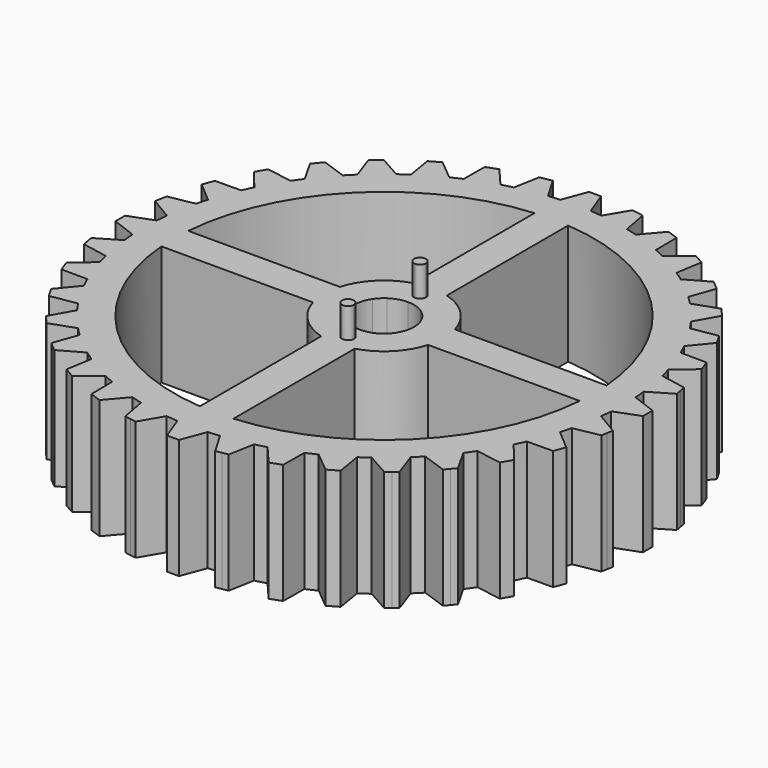
from build123d import *

# Parameters (mm, degrees)
F1_DEPTH = 25.4
F3_DEPTH = 6.35


with BuildPart() as f1:
    # F0 (on Top) → F1 (new body)
    with BuildSketch(Plane.XY):
        with BuildLine():
            Line((49.784, 0), (50.8, 0))
            ThreePointArc((50.8, 0), (50.7745638952, 1.6073771335), (50.6982810532, 3.2131446051))
            Line((50.6982810532, 3.2131446051), (49.784, 3.556))
            Line((49.784, 3.556), (49.784, 0))
        make_face()
        with BuildLine():
            Line((55.88, 0), (50.8, 0))
            ThreePointArc((50.8, 0), (50.7745638952, -1.6073771335), (50.6982810532, -3.2131446051))
            Line((50.6982810532, -3.2131446051), (55.88, -1.27))
            Line((55.88, -1.27), (55.88, 0))
        make_face()
        with BuildLine():
            ThreePointArc((50.6982810532, -3.2131446051), (50.7745638952, -1.6073771335), (50.8, 0))
            Line((50.8, 0), (49.784, 0))
            Line((49.784, 0), (49.784, -3.556))
            Line((49.784, -3.556), (50.6982810532, -3.2131446051))
        make_face()
        with BuildLine():
            ThreePointArc((50.6982810532, 3.2131446051), (50.7745638952, 1.6073771335), (50.8, 0))
            Line((50.8, 0), (55.88, 0))
            Line((55.88, 0), (55.88, 1.27))
            Line((55.88, 1.27), (50.6982810532, 3.2131446051))
        make_face()
        with BuildLine():
            Line((49.784, 3.556), (50.6982810532, 3.2131446051))
            ThreePointArc((50.6982810532, 3.2131446051), (50.6066906631, 4.4275117316), (50.4860169508, 5.6393343971))
            Line((50.4860169508, 5.6393343971), (49.6451620957, 5.1429245073))
            Line((49.6451620957, 5.1429245073), (49.027669176, 8.644900877))
            Line((49.027669176, 8.644900877), (48.4101762562, 12.1468772467))
            Line((48.4101762562, 12.1468772467), (49.3701035403, 11.9679938343))
            ThreePointArc((49.3701035403, 11.9679938343), (49.0690319755, 13.1480074912), (48.7397607705, 14.3204650773))
            Line((48.7397607705, 14.3204650773), (47.9978810629, 13.6855838558))
            Line((47.9978810629, 13.6855838558), (46.7816574332, 17.0271308153))
            Line((46.7816574332, 17.0271308153), (45.5654338035, 20.3686777748))
            Line((45.5654338035, 20.3686777748), (46.5418404139, 20.3592016271))
            ThreePointArc((46.5418404139, 20.3592016271), (46.0404355815, 21.4690076964), (45.5125716228, 22.5664756726))
            Line((45.5125716228, 22.5664756726), (44.892208702, 21.8124136641))
            Line((44.892208702, 21.8124136641), (43.114208702, 24.892))
            Line((43.114208702, 24.892), (41.336208702, 27.9715863359))
            Line((41.336208702, 27.9715863359), (42.2994270177, 28.1318053806))
            ThreePointArc((42.2994270177, 28.1318053806), (41.6129238499, 29.1376829666), (40.9025060167, 30.1268153237))
            Line((40.9025060167, 30.1268153237), (40.4225092963, 29.2764843209))
            Line((40.4225092963, 29.2764843209), (38.1367565562, 32.0005383606))
            Line((38.1367565562, 32.0005383606), (35.8510038162, 34.7245924004))
            Line((35.8510038162, 34.7245924004), (36.7717669362, 35.049638463))
            ThreePointArc((36.7717669362, 35.049638463), (35.9210244843, 35.9210244843), (35.049638463, 36.7717669362))
            Line((35.049638463, 36.7717669362), (34.7245924004, 35.8510038162))
            Line((34.7245924004, 35.8510038162), (32.0005383606, 38.1367565562))
            Line((32.0005383606, 38.1367565562), (29.2764843209, 40.4225092963))
            Line((29.2764843209, 40.4225092963), (30.1268153237, 40.9025060167))
            ThreePointArc((30.1268153237, 40.9025060167), (29.1376829666, 41.6129238499), (28.1318053806, 42.2994270177))
            Line((28.1318053806, 42.2994270177), (27.9715863359, 41.336208702))
            Line((27.9715863359, 41.336208702), (24.892, 43.114208702))
            Line((24.892, 43.114208702), (21.8124136641, 44.892208702))
            Line((21.8124136641, 44.892208702), (22.5664756726, 45.5125716228))
            ThreePointArc((22.5664756726, 45.5125716228), (21.4690076964, 46.0404355815), (20.3592016271, 46.5418404139))
            Line((20.3592016271, 46.5418404139), (20.3686777748, 45.5654338035))
            Line((20.3686777748, 45.5654338035), (17.0271308153, 46.7816574332))
            Line((17.0271308153, 46.7816574332), (13.6855838558, 47.9978810629))
            Line((13.6855838558, 47.9978810629), (14.3204650773, 48.7397607705))
            ThreePointArc((14.3204650773, 48.7397607705), (13.1480074912, 49.0690319755), (11.9679938343, 49.3701035403))
            Line((11.9679938343, 49.3701035403), (12.1468772467, 48.4101762562))
            Line((12.1468772467, 48.4101762562), (8.644900877, 49.027669176))
            Line((8.644900877, 49.027669176), (5.1429245073, 49.6451620957))
            Line((5.1429245073, 49.6451620957), (5.6393343971, 50.4860169508))
            ThreePointArc((5.6393343971, 50.4860169508), (4.4275117316, 50.6066906631), (3.2131446051, 50.6982810532))
            Line((3.2131446051, 50.6982810532), (3.556, 49.784))
            Line((3.556, 49.784), (3.556, 44.3075316848))
            ThreePointArc((3.556, 44.3075316848), (31.4308964237, 31.4308964237), (44.3075316848, 3.556))
            Line((44.3075316848, 3.556), (49.784, 3.556))
        make_face()
        with BuildLine():
            ThreePointArc((50.4860169508, -5.6393343971), (50.6066906631, -4.4275117316), (50.6982810532, -3.2131446051))
            Line((50.6982810532, -3.2131446051), (49.784, -3.556))
            Line((49.784, -3.556), (44.3075316848, -3.556))
            ThreePointArc((44.3075316848, -3.556), (31.4308964237, -31.4308964237), (3.556, -44.3075316848))
            Line((3.556, -44.3075316848), (3.556, -49.784))
            Line((3.556, -49.784), (3.2131446051, -50.6982810532))
            ThreePointArc((3.2131446051, -50.6982810532), (4.4275117316, -50.6066906631), (5.6393343971, -50.4860169508))
            Line((5.6393343971, -50.4860169508), (5.1429245073, -49.6451620957))
            Line((5.1429245073, -49.6451620957), (8.644900877, -49.027669176))
            Line((8.644900877, -49.027669176), (12.1468772467, -48.4101762562))
            Line((12.1468772467, -48.4101762562), (11.9679938343, -49.3701035403))
            ThreePointArc((11.9679938343, -49.3701035403), (13.1480074912, -49.0690319755), (14.3204650773, -48.7397607705))
            Line((14.3204650773, -48.7397607705), (13.6855838558, -47.9978810629))
            Line((13.6855838558, -47.9978810629), (17.0271308153, -46.7816574332))
            Line((17.0271308153, -46.7816574332), (20.3686777748, -45.5654338035))
            Line((20.3686777748, -45.5654338035), (20.3592016271, -46.5418404139))
            ThreePointArc((20.3592016271, -46.5418404139), (21.4690076964, -46.0404355815), (22.5664756726, -45.5125716228))
            Line((22.5664756726, -45.5125716228), (21.8124136641, -44.892208702))
            Line((21.8124136641, -44.892208702), (24.892, -43.114208702))
            Line((24.892, -43.114208702), (27.9715863359, -41.336208702))
            Line((27.9715863359, -41.336208702), (28.1318053806, -42.2994270177))
            ThreePointArc((28.1318053806, -42.2994270177), (29.1376829666, -41.6129238499), (30.1268153237, -40.9025060167))
            Line((30.1268153237, -40.9025060167), (29.2764843209, -40.4225092963))
            Line((29.2764843209, -40.4225092963), (32.0005383606, -38.1367565562))
            Line((32.0005383606, -38.1367565562), (34.7245924004, -35.8510038162))
            Line((34.7245924004, -35.8510038162), (35.049638463, -36.7717669362))
            ThreePointArc((35.049638463, -36.7717669362), (35.9210244843, -35.9210244843), (36.7717669362, -35.049638463))
            Line((36.7717669362, -35.049638463), (35.8510038162, -34.7245924004))
            Line((35.8510038162, -34.7245924004), (38.1367565562, -32.0005383606))
            Line((38.1367565562, -32.0005383606), (40.4225092963, -29.2764843209))
            Line((40.4225092963, -29.2764843209), (40.9025060167, -30.1268153237))
            ThreePointArc((40.9025060167, -30.1268153237), (41.6129238499, -29.1376829666), (42.2994270177, -28.1318053806))
            Line((42.2994270177, -28.1318053806), (41.336208702, -27.9715863359))
            Line((41.336208702, -27.9715863359), (43.114208702, -24.892))
            Line((43.114208702, -24.892), (44.892208702, -21.8124136641))
            Line((44.892208702, -21.8124136641), (45.5125716228, -22.5664756726))
            ThreePointArc((45.5125716228, -22.5664756726), (46.0404355815, -21.4690076964), (46.5418404139, -20.3592016271))
            Line((46.5418404139, -20.3592016271), (45.5654338035, -20.3686777748))
            Line((45.5654338035, -20.3686777748), (46.7816574332, -17.0271308153))
            Line((46.7816574332, -17.0271308153), (47.9978810629, -13.6855838558))
            Line((47.9978810629, -13.6855838558), (48.7397607705, -14.3204650773))
            ThreePointArc((48.7397607705, -14.3204650773), (49.0690319755, -13.1480074912), (49.3701035403, -11.9679938343))
            Line((49.3701035403, -11.9679938343), (48.4101762562, -12.1468772467))
            Line((48.4101762562, -12.1468772467), (49.027669176, -8.644900877))
            Line((49.027669176, -8.644900877), (49.6451620957, -5.1429245073))
            Line((49.6451620957, -5.1429245073), (50.4860169508, -5.6393343971))
        make_face()
        with BuildLine():
            Line((49.6451620957, 5.1429245073), (50.4860169508, 5.6393343971))
            ThreePointArc((50.4860169508, 5.6393343971), (50.028233853, 8.8213274255), (49.3701035403, 11.9679938343))
            Line((49.3701035403, 11.9679938343), (48.4101762562, 12.1468772467))
            Line((48.4101762562, 12.1468772467), (49.027669176, 8.644900877))
            Line((49.027669176, 8.644900877), (49.6451620957, 5.1429245073))
        make_face()
        with BuildLine():
            ThreePointArc((49.3701035403, 11.9679938343), (50.028233853, 8.8213274255), (50.4860169508, 5.6393343971))
            Line((50.4860169508, 5.6393343971), (55.251590424, 8.4527543217))
            Line((55.251590424, 8.4527543217), (55.0310572383, 9.703460168))
            Line((55.0310572383, 9.703460168), (54.8105240527, 10.9541660144))
            Line((54.8105240527, 10.9541660144), (49.3701035403, 11.9679938343))
        make_face()
        with BuildLine():
            Line((55.251590424, -8.4527543217), (50.4860169508, -5.6393343971))
            ThreePointArc((50.4860169508, -5.6393343971), (50.028233853, -8.8213274255), (49.3701035403, -11.9679938343))
            Line((49.3701035403, -11.9679938343), (54.8105240527, -10.9541660144))
            Line((54.8105240527, -10.9541660144), (55.0310572383, -9.703460168))
            Line((55.0310572383, -9.703460168), (55.251590424, -8.4527543217))
        make_face()
        with BuildLine():
            ThreePointArc((49.3701035403, -11.9679938343), (50.028233853, -8.8213274255), (50.4860169508, -5.6393343971))
            Line((50.4860169508, -5.6393343971), (49.6451620957, -5.1429245073))
            Line((49.6451620957, -5.1429245073), (49.027669176, -8.644900877))
            Line((49.027669176, -8.644900877), (48.4101762562, -12.1468772467))
            Line((48.4101762562, -12.1468772467), (49.3701035403, -11.9679938343))
        make_face()
        with BuildLine():
            Line((47.9978810629, 13.6855838558), (48.7397607705, 14.3204650773))
            ThreePointArc((48.7397607705, 14.3204650773), (47.7363851359, 17.3746232809), (46.5418404139, 20.3592016271))
            Line((46.5418404139, 20.3592016271), (45.5654338035, 20.3686777748))
            Line((45.5654338035, 20.3686777748), (46.7816574332, 17.0271308153))
            Line((46.7816574332, 17.0271308153), (47.9978810629, 13.6855838558))
        make_face()
        with BuildLine():
            ThreePointArc((46.5418404139, 20.3592016271), (47.7363851359, 17.3746232809), (48.7397607705, 14.3204650773))
            Line((48.7397607705, 14.3204650773), (52.9443892315, 17.9186759806))
            Line((52.9443892315, 17.9186759806), (52.5100236495, 19.112085609))
            Line((52.5100236495, 19.112085609), (52.0756580675, 20.3054952374))
            Line((52.0756580675, 20.3054952374), (46.5418404139, 20.3592016271))
        make_face()
        with BuildLine():
            Line((52.9443892315, -17.9186759806), (48.7397607705, -14.3204650773))
            ThreePointArc((48.7397607705, -14.3204650773), (47.7363851359, -17.3746232809), (46.5418404139, -20.3592016271))
            Line((46.5418404139, -20.3592016271), (52.0756580675, -20.3054952374))
            Line((52.0756580675, -20.3054952374), (52.5100236495, -19.112085609))
            Line((52.5100236495, -19.112085609), (52.9443892315, -17.9186759806))
        make_face()
        with BuildLine():
            ThreePointArc((46.5418404139, -20.3592016271), (47.7363851359, -17.3746232809), (48.7397607705, -14.3204650773))
            Line((48.7397607705, -14.3204650773), (47.9978810629, -13.6855838558))
            Line((47.9978810629, -13.6855838558), (46.7816574332, -17.0271308153))
            Line((46.7816574332, -17.0271308153), (45.5654338035, -20.3686777748))
            Line((45.5654338035, -20.3686777748), (46.5418404139, -20.3592016271))
        make_face()
        with BuildLine():
            Line((0, 49.784), (3.556, 49.784))
            Line((3.556, 49.784), (3.2131446051, 50.6982810532))
            ThreePointArc((3.2131446051, 50.6982810532), (1.6073771335, 50.7745638952), (0, 50.8))
            Line((0, 50.8), (0, 49.784))
        make_face()
        with BuildLine():
            Line((3.2131446051, -50.6982810532), (3.556, -49.784))
            Line((3.556, -49.784), (0, -49.784))
            Line((0, -49.784), (0, -50.8))
            ThreePointArc((0, -50.8), (1.6073771335, -50.7745638952), (3.2131446051, -50.6982810532))
        make_face()
        with BuildLine():
            Line((44.892208702, 21.8124136641), (45.5125716228, 22.5664756726))
            ThreePointArc((45.5125716228, 22.5664756726), (43.9940905122, 25.4), (42.2994270177, 28.1318053806))
            Line((42.2994270177, 28.1318053806), (41.336208702, 27.9715863359))
            Line((41.336208702, 27.9715863359), (43.114208702, 24.892))
            Line((43.114208702, 24.892), (44.892208702, 21.8124136641))
        make_face()
        with BuildLine():
            ThreePointArc((42.2994270177, 28.1318053806), (43.9940905122, 25.4), (45.5125716228, 22.5664756726))
            Line((45.5125716228, 22.5664756726), (49.0284995635, 26.8401477372))
            Line((49.0284995635, 26.8401477372), (48.3934995635, 27.94))
            Line((48.3934995635, 27.94), (47.7584995635, 29.0398522628))
            Line((47.7584995635, 29.0398522628), (42.2994270177, 28.1318053806))
        make_face()
        with BuildLine():
            ThreePointArc((-44.3075316848, 3.556), (-31.4308964237, 31.4308964237), (-3.556, 44.3075316848))
            Line((-3.556, 44.3075316848), (-3.556, 49.784))
            Line((-3.556, 49.784), (-3.2131446051, 50.6982810532))
            ThreePointArc((-3.2131446051, 50.6982810532), (-4.4275117316, 50.6066906631), (-5.6393343971, 50.4860169508))
            Line((-5.6393343971, 50.4860169508), (-5.1429245073, 49.6451620957))
            Line((-5.1429245073, 49.6451620957), (-8.644900877, 49.027669176))
            Line((-8.644900877, 49.027669176), (-12.1468772467, 48.4101762562))
            Line((-12.1468772467, 48.4101762562), (-11.9679938343, 49.3701035403))
            ThreePointArc((-11.9679938343, 49.3701035403), (-13.1480074912, 49.0690319755), (-14.3204650773, 48.7397607705))
            Line((-14.3204650773, 48.7397607705), (-13.6855838558, 47.9978810629))
            Line((-13.6855838558, 47.9978810629), (-17.0271308153, 46.7816574332))
            Line((-17.0271308153, 46.7816574332), (-20.3686777748, 45.5654338035))
            Line((-20.3686777748, 45.5654338035), (-20.3592016271, 46.5418404139))
            ThreePointArc((-20.3592016271, 46.5418404139), (-21.4690076964, 46.0404355815), (-22.5664756726, 45.5125716228))
            Line((-22.5664756726, 45.5125716228), (-21.8124136641, 44.892208702))
            Line((-21.8124136641, 44.892208702), (-24.892, 43.114208702))
            Line((-24.892, 43.114208702), (-27.9715863359, 41.336208702))
            Line((-27.9715863359, 41.336208702), (-28.1318053806, 42.2994270177))
            ThreePointArc((-28.1318053806, 42.2994270177), (-29.1376829666, 41.6129238499), (-30.1268153237, 40.9025060167))
            Line((-30.1268153237, 40.9025060167), (-29.2764843209, 40.4225092963))
            Line((-29.2764843209, 40.4225092963), (-32.0005383606, 38.1367565562))
            Line((-32.0005383606, 38.1367565562), (-34.7245924004, 35.8510038162))
            Line((-34.7245924004, 35.8510038162), (-35.049638463, 36.7717669362))
            ThreePointArc((-35.049638463, 36.7717669362), (-35.9210244843, 35.9210244843), (-36.7717669362, 35.049638463))
            Line((-36.7717669362, 35.049638463), (-35.8510038162, 34.7245924004))
            Line((-35.8510038162, 34.7245924004), (-38.1367565562, 32.0005383606))
            Line((-38.1367565562, 32.0005383606), (-40.4225092963, 29.2764843209))
            Line((-40.4225092963, 29.2764843209), (-40.9025060167, 30.1268153237))
            ThreePointArc((-40.9025060167, 30.1268153237), (-41.6129238499, 29.1376829666), (-42.2994270177, 28.1318053806))
            Line((-42.2994270177, 28.1318053806), (-41.336208702, 27.9715863359))
            Line((-41.336208702, 27.9715863359), (-43.114208702, 24.892))
            Line((-43.114208702, 24.892), (-44.892208702, 21.8124136641))
            Line((-44.892208702, 21.8124136641), (-45.5125716228, 22.5664756726))
            ThreePointArc((-45.5125716228, 22.5664756726), (-46.0404355815, 21.4690076964), (-46.5418404139, 20.3592016271))
            Line((-46.5418404139, 20.3592016271), (-45.5654338035, 20.3686777748))
            Line((-45.5654338035, 20.3686777748), (-46.7816574332, 17.0271308153))
            Line((-46.7816574332, 17.0271308153), (-47.9978810629, 13.6855838558))
            Line((-47.9978810629, 13.6855838558), (-48.7397607705, 14.3204650773))
            ThreePointArc((-48.7397607705, 14.3204650773), (-49.0690319755, 13.1480074912), (-49.3701035403, 11.9679938343))
            Line((-49.3701035403, 11.9679938343), (-48.4101762562, 12.1468772467))
            Line((-48.4101762562, 12.1468772467), (-49.027669176, 8.644900877))
            Line((-49.027669176, 8.644900877), (-49.6451620957, 5.1429245073))
            Line((-49.6451620957, 5.1429245073), (-50.4860169508, 5.6393343971))
            ThreePointArc((-50.4860169508, 5.6393343971), (-50.6066906631, 4.4275117316), (-50.6982810532, 3.2131446051))
            Line((-50.6982810532, 3.2131446051), (-49.784, 3.556))
            Line((-49.784, 3.556), (-44.3075316848, 3.556))
        make_face()
        with BuildLine():
            Line((-3.556, 49.784), (0, 49.784))
            Line((0, 49.784), (0, 50.8))
            ThreePointArc((0, 50.8), (-1.6073771335, 50.7745638952), (-3.2131446051, 50.6982810532))
            Line((-3.2131446051, 50.6982810532), (-3.556, 49.784))
        make_face()
        with BuildLine():
            ThreePointArc((0, 50.8), (1.6073771335, 50.7745638952), (3.2131446051, 50.6982810532))
            Line((3.2131446051, 50.6982810532), (1.27, 55.88))
            Line((1.27, 55.88), (0, 55.88))
            Line((0, 55.88), (0, 50.8))
        make_face()
        with BuildLine():
            Line((49.0284995635, -26.8401477372), (45.5125716228, -22.5664756726))
            ThreePointArc((45.5125716228, -22.5664756726), (43.9940905122, -25.4), (42.2994270177, -28.1318053806))
            Line((42.2994270177, -28.1318053806), (47.7584995635, -29.0398522628))
            Line((47.7584995635, -29.0398522628), (48.3934995635, -27.94))
            Line((48.3934995635, -27.94), (49.0284995635, -26.8401477372))
        make_face()
        with BuildLine():
            ThreePointArc((42.2994270177, -28.1318053806), (43.9940905122, -25.4), (45.5125716228, -22.5664756726))
            Line((45.5125716228, -22.5664756726), (44.892208702, -21.8124136641))
            Line((44.892208702, -21.8124136641), (43.114208702, -24.892))
            Line((43.114208702, -24.892), (41.336208702, -27.9715863359))
            Line((41.336208702, -27.9715863359), (42.2994270177, -28.1318053806))
        make_face()
        with BuildLine():
            Line((-3.556, -49.784), (-3.556, -44.3075316848))
            ThreePointArc((-3.556, -44.3075316848), (-31.4308964237, -31.4308964237), (-44.3075316848, -3.556))
            Line((-44.3075316848, -3.556), (-49.784, -3.556))
            Line((-49.784, -3.556), (-50.6982810532, -3.2131446051))
            ThreePointArc((-50.6982810532, -3.2131446051), (-50.6066906631, -4.4275117316), (-50.4860169508, -5.6393343971))
            Line((-50.4860169508, -5.6393343971), (-49.6451620957, -5.1429245073))
            Line((-49.6451620957, -5.1429245073), (-49.027669176, -8.644900877))
            Line((-49.027669176, -8.644900877), (-48.4101762562, -12.1468772467))
            Line((-48.4101762562, -12.1468772467), (-49.3701035403, -11.9679938343))
            ThreePointArc((-49.3701035403, -11.9679938343), (-49.0690319755, -13.1480074912), (-48.7397607705, -14.3204650773))
            Line((-48.7397607705, -14.3204650773), (-47.9978810629, -13.6855838558))
            Line((-47.9978810629, -13.6855838558), (-46.7816574332, -17.0271308153))
            Line((-46.7816574332, -17.0271308153), (-45.5654338035, -20.3686777748))
            Line((-45.5654338035, -20.3686777748), (-46.5418404139, -20.3592016271))
            ThreePointArc((-46.5418404139, -20.3592016271), (-46.0404355815, -21.4690076964), (-45.5125716228, -22.5664756726))
            Line((-45.5125716228, -22.5664756726), (-44.892208702, -21.8124136641))
            Line((-44.892208702, -21.8124136641), (-43.114208702, -24.892))
            Line((-43.114208702, -24.892), (-41.336208702, -27.9715863359))
            Line((-41.336208702, -27.9715863359), (-42.2994270177, -28.1318053806))
            ThreePointArc((-42.2994270177, -28.1318053806), (-41.6129238499, -29.1376829666), (-40.9025060167, -30.1268153237))
            Line((-40.9025060167, -30.1268153237), (-40.4225092963, -29.2764843209))
            Line((-40.4225092963, -29.2764843209), (-38.1367565562, -32.0005383606))
            Line((-38.1367565562, -32.0005383606), (-35.8510038162, -34.7245924004))
            Line((-35.8510038162, -34.7245924004), (-36.7717669362, -35.049638463))
            ThreePointArc((-36.7717669362, -35.049638463), (-35.9210244843, -35.9210244843), (-35.049638463, -36.7717669362))
            Line((-35.049638463, -36.7717669362), (-34.7245924004, -35.8510038162))
            Line((-34.7245924004, -35.8510038162), (-32.0005383606, -38.1367565562))
            Line((-32.0005383606, -38.1367565562), (-29.2764843209, -40.4225092963))
            Line((-29.2764843209, -40.4225092963), (-30.1268153237, -40.9025060167))
            ThreePointArc((-30.1268153237, -40.9025060167), (-29.1376829666, -41.6129238499), (-28.1318053806, -42.2994270177))
            Line((-28.1318053806, -42.2994270177), (-27.9715863359, -41.336208702))
            Line((-27.9715863359, -41.336208702), (-24.892, -43.114208702))
            Line((-24.892, -43.114208702), (-21.8124136641, -44.892208702))
            Line((-21.8124136641, -44.892208702), (-22.5664756726, -45.5125716228))
            ThreePointArc((-22.5664756726, -45.5125716228), (-21.4690076964, -46.0404355815), (-20.3592016271, -46.5418404139))
            Line((-20.3592016271, -46.5418404139), (-20.3686777748, -45.5654338035))
            Line((-20.3686777748, -45.5654338035), (-17.0271308153, -46.7816574332))
            Line((-17.0271308153, -46.7816574332), (-13.6855838558, -47.9978810629))
            Line((-13.6855838558, -47.9978810629), (-14.3204650773, -48.7397607705))
            ThreePointArc((-14.3204650773, -48.7397607705), (-13.1480074912, -49.0690319755), (-11.9679938343, -49.3701035403))
            Line((-11.9679938343, -49.3701035403), (-12.1468772467, -48.4101762562))
            Line((-12.1468772467, -48.4101762562), (-8.644900877, -49.027669176))
            Line((-8.644900877, -49.027669176), (-5.1429245073, -49.6451620957))
            Line((-5.1429245073, -49.6451620957), (-5.6393343971, -50.4860169508))
            ThreePointArc((-5.6393343971, -50.4860169508), (-4.4275117316, -50.6066906631), (-3.2131446051, -50.6982810532))
            Line((-3.2131446051, -50.6982810532), (-3.556, -49.784))
        make_face()
        with BuildLine():
            Line((0, -50.8), (0, -49.784))
            Line((0, -49.784), (-3.556, -49.784))
            Line((-3.556, -49.784), (-3.2131446051, -50.6982810532))
            ThreePointArc((-3.2131446051, -50.6982810532), (-1.6073771335, -50.7745638952), (0, -50.8))
        make_face()
        with BuildLine():
            Line((1.27, -55.88), (3.2131446051, -50.6982810532))
            ThreePointArc((3.2131446051, -50.6982810532), (1.6073771335, -50.7745638952), (0, -50.8))
            Line((0, -50.8), (0, -55.88))
            Line((0, -55.88), (1.27, -55.88))
        make_face()
        with BuildLine():
            ThreePointArc((-3.2131446051, 50.6982810532), (-1.6073771335, 50.7745638952), (0, 50.8))
            Line((0, 50.8), (0, 55.88))
            Line((0, 55.88), (-1.27, 55.88))
            Line((-1.27, 55.88), (-3.2131446051, 50.6982810532))
        make_face()
        with BuildLine():
            Line((8.4527543217, 55.251590424), (5.6393343971, 50.4860169508))
            ThreePointArc((5.6393343971, 50.4860169508), (8.8213274255, 50.028233853), (11.9679938343, 49.3701035403))
            Line((11.9679938343, 49.3701035403), (10.9541660144, 54.8105240527))
            Line((10.9541660144, 54.8105240527), (9.703460168, 55.0310572383))
            Line((9.703460168, 55.0310572383), (8.4527543217, 55.251590424))
        make_face()
        with BuildLine():
            ThreePointArc((11.9679938343, 49.3701035403), (8.8213274255, 50.028233853), (5.6393343971, 50.4860169508))
            Line((5.6393343971, 50.4860169508), (5.1429245073, 49.6451620957))
            Line((5.1429245073, 49.6451620957), (8.644900877, 49.027669176))
            Line((8.644900877, 49.027669176), (12.1468772467, 48.4101762562))
            Line((12.1468772467, 48.4101762562), (11.9679938343, 49.3701035403))
        make_face()
        with BuildLine():
            Line((0, -55.88), (0, -50.8))
            ThreePointArc((0, -50.8), (-1.6073771335, -50.7745638952), (-3.2131446051, -50.6982810532))
            Line((-3.2131446051, -50.6982810532), (-1.27, -55.88))
            Line((-1.27, -55.88), (0, -55.88))
        make_face()
        with BuildLine():
            Line((5.1429245073, -49.6451620957), (5.6393343971, -50.4860169508))
            ThreePointArc((5.6393343971, -50.4860169508), (8.8213274255, -50.028233853), (11.9679938343, -49.3701035403))
            Line((11.9679938343, -49.3701035403), (12.1468772467, -48.4101762562))
            Line((12.1468772467, -48.4101762562), (8.644900877, -49.027669176))
            Line((8.644900877, -49.027669176), (5.1429245073, -49.6451620957))
        make_face()
        with BuildLine():
            ThreePointArc((11.9679938343, -49.3701035403), (8.8213274255, -50.028233853), (5.6393343971, -50.4860169508))
            Line((5.6393343971, -50.4860169508), (8.4527543217, -55.251590424))
            Line((8.4527543217, -55.251590424), (9.703460168, -55.0310572383))
            Line((9.703460168, -55.0310572383), (10.9541660144, -54.8105240527))
            Line((10.9541660144, -54.8105240527), (11.9679938343, -49.3701035403))
        make_face()
        with BuildLine():
            Line((40.4225092963, 29.2764843209), (40.9025060167, 30.1268153237))
            ThreePointArc((40.9025060167, 30.1268153237), (38.9150577104, 32.6536105721), (36.7717669362, 35.049638463))
            Line((36.7717669362, 35.049638463), (35.8510038162, 34.7245924004))
            Line((35.8510038162, 34.7245924004), (38.1367565562, 32.0005383606))
            Line((38.1367565562, 32.0005383606), (40.4225092963, 29.2764843209))
        make_face()
        with BuildLine():
            ThreePointArc((36.7717669362, 35.049638463), (38.9150577104, 32.6536105721), (40.9025060167, 30.1268153237))
            Line((40.9025060167, 30.1268153237), (43.6229037458, 34.9460951865))
            Line((43.6229037458, 34.9460951865), (42.8065634815, 35.9189716293))
            Line((42.8065634815, 35.9189716293), (41.9902232172, 36.891848072))
            Line((41.9902232172, 36.891848072), (36.7717669362, 35.049638463))
        make_face()
        with BuildLine():
            Line((-49.784, 0), (-49.784, 3.556))
            Line((-49.784, 3.556), (-50.6982810532, 3.2131446051))
            ThreePointArc((-50.6982810532, 3.2131446051), (-50.7745638952, 1.6073771335), (-50.8, 0))
            Line((-50.8, 0), (-49.784, 0))
        make_face()
        with BuildLine():
            Line((43.6229037458, -34.9460951865), (40.9025060167, -30.1268153237))
            ThreePointArc((40.9025060167, -30.1268153237), (38.9150577104, -32.6536105721), (36.7717669362, -35.049638463))
            Line((36.7717669362, -35.049638463), (41.9902232172, -36.891848072))
            Line((41.9902232172, -36.891848072), (42.8065634815, -35.9189716293))
            Line((42.8065634815, -35.9189716293), (43.6229037458, -34.9460951865))
        make_face()
        with BuildLine():
            ThreePointArc((36.7717669362, -35.049638463), (38.9150577104, -32.6536105721), (40.9025060167, -30.1268153237))
            Line((40.9025060167, -30.1268153237), (40.4225092963, -29.2764843209))
            Line((40.4225092963, -29.2764843209), (38.1367565562, -32.0005383606))
            Line((38.1367565562, -32.0005383606), (35.8510038162, -34.7245924004))
            Line((35.8510038162, -34.7245924004), (36.7717669362, -35.049638463))
        make_face()
        with BuildLine():
            Line((-50.6982810532, -3.2131446051), (-49.784, -3.556))
            Line((-49.784, -3.556), (-49.784, 0))
            Line((-49.784, 0), (-50.8, 0))
            ThreePointArc((-50.8, 0), (-50.7745638952, -1.6073771335), (-50.6982810532, -3.2131446051))
        make_face()
        with BuildLine():
            ThreePointArc((-50.8, 0), (-50.7745638952, 1.6073771335), (-50.6982810532, 3.2131446051))
            Line((-50.6982810532, 3.2131446051), (-55.88, 1.27))
            Line((-55.88, 1.27), (-55.88, 0))
            Line((-55.88, 0), (-50.8, 0))
        make_face()
        with BuildLine():
            Line((-5.1429245073, 49.6451620957), (-5.6393343971, 50.4860169508))
            ThreePointArc((-5.6393343971, 50.4860169508), (-8.8213274255, 50.028233853), (-11.9679938343, 49.3701035403))
            Line((-11.9679938343, 49.3701035403), (-12.1468772467, 48.4101762562))
            Line((-12.1468772467, 48.4101762562), (-8.644900877, 49.027669176))
            Line((-8.644900877, 49.027669176), (-5.1429245073, 49.6451620957))
        make_face()
        with BuildLine():
            ThreePointArc((-11.9679938343, 49.3701035403), (-8.8213274255, 50.028233853), (-5.6393343971, 50.4860169508))
            Line((-5.6393343971, 50.4860169508), (-8.4527543217, 55.251590424))
            Line((-8.4527543217, 55.251590424), (-9.703460168, 55.0310572383))
            Line((-9.703460168, 55.0310572383), (-10.9541660144, 54.8105240527))
            Line((-10.9541660144, 54.8105240527), (-11.9679938343, 49.3701035403))
        make_face()
        with BuildLine():
            Line((17.9186759806, 52.9443892315), (14.3204650773, 48.7397607705))
            ThreePointArc((14.3204650773, 48.7397607705), (17.3746232809, 47.7363851359), (20.3592016271, 46.5418404139))
            Line((20.3592016271, 46.5418404139), (20.3054952374, 52.0756580675))
            Line((20.3054952374, 52.0756580675), (19.112085609, 52.5100236495))
            Line((19.112085609, 52.5100236495), (17.9186759806, 52.9443892315))
        make_face()
        with BuildLine():
            ThreePointArc((20.3592016271, 46.5418404139), (17.3746232809, 47.7363851359), (14.3204650773, 48.7397607705))
            Line((14.3204650773, 48.7397607705), (13.6855838558, 47.9978810629))
            Line((13.6855838558, 47.9978810629), (17.0271308153, 46.7816574332))
            Line((17.0271308153, 46.7816574332), (20.3686777748, 45.5654338035))
            Line((20.3686777748, 45.5654338035), (20.3592016271, 46.5418404139))
        make_face()
        with BuildLine():
            Line((-55.88, -1.27), (-50.6982810532, -3.2131446051))
            ThreePointArc((-50.6982810532, -3.2131446051), (-50.7745638952, -1.6073771335), (-50.8, 0))
            Line((-50.8, 0), (-55.88, 0))
            Line((-55.88, 0), (-55.88, -1.27))
        make_face()
        with BuildLine():
            Line((-8.4527543217, -55.251590424), (-5.6393343971, -50.4860169508))
            ThreePointArc((-5.6393343971, -50.4860169508), (-8.8213274255, -50.028233853), (-11.9679938343, -49.3701035403))
            Line((-11.9679938343, -49.3701035403), (-10.9541660144, -54.8105240527))
            Line((-10.9541660144, -54.8105240527), (-9.703460168, -55.0310572383))
            Line((-9.703460168, -55.0310572383), (-8.4527543217, -55.251590424))
        make_face()
        with BuildLine():
            ThreePointArc((-11.9679938343, -49.3701035403), (-8.8213274255, -50.028233853), (-5.6393343971, -50.4860169508))
            Line((-5.6393343971, -50.4860169508), (-5.1429245073, -49.6451620957))
            Line((-5.1429245073, -49.6451620957), (-8.644900877, -49.027669176))
            Line((-8.644900877, -49.027669176), (-12.1468772467, -48.4101762562))
            Line((-12.1468772467, -48.4101762562), (-11.9679938343, -49.3701035403))
        make_face()
        with BuildLine():
            Line((13.6855838558, -47.9978810629), (14.3204650773, -48.7397607705))
            ThreePointArc((14.3204650773, -48.7397607705), (17.3746232809, -47.7363851359), (20.3592016271, -46.5418404139))
            Line((20.3592016271, -46.5418404139), (20.3686777748, -45.5654338035))
            Line((20.3686777748, -45.5654338035), (17.0271308153, -46.7816574332))
            Line((17.0271308153, -46.7816574332), (13.6855838558, -47.9978810629))
        make_face()
        with BuildLine():
            ThreePointArc((20.3592016271, -46.5418404139), (17.3746232809, -47.7363851359), (14.3204650773, -48.7397607705))
            Line((14.3204650773, -48.7397607705), (17.9186759806, -52.9443892315))
            Line((17.9186759806, -52.9443892315), (19.112085609, -52.5100236495))
            Line((19.112085609, -52.5100236495), (20.3054952374, -52.0756580675))
            Line((20.3054952374, -52.0756580675), (20.3592016271, -46.5418404139))
        make_face()
        with BuildLine():
            Line((34.7245924004, 35.8510038162), (35.049638463, 36.7717669362))
            ThreePointArc((35.049638463, 36.7717669362), (32.6536105721, 38.9150577104), (30.1268153237, 40.9025060167))
            Line((30.1268153237, 40.9025060167), (29.2764843209, 40.4225092963))
            Line((29.2764843209, 40.4225092963), (32.0005383606, 38.1367565562))
            Line((32.0005383606, 38.1367565562), (34.7245924004, 35.8510038162))
        make_face()
        with BuildLine():
            ThreePointArc((30.1268153237, 40.9025060167), (32.6536105721, 38.9150577104), (35.049638463, 36.7717669362))
            Line((35.049638463, 36.7717669362), (36.891848072, 41.9902232172))
            Line((36.891848072, 41.9902232172), (35.9189716293, 42.8065634815))
            Line((35.9189716293, 42.8065634815), (34.9460951865, 43.6229037458))
            Line((34.9460951865, 43.6229037458), (30.1268153237, 40.9025060167))
        make_face()
        with BuildLine():
            Line((-55.251590424, 8.4527543217), (-50.4860169508, 5.6393343971))
            ThreePointArc((-50.4860169508, 5.6393343971), (-50.028233853, 8.8213274255), (-49.3701035403, 11.9679938343))
            Line((-49.3701035403, 11.9679938343), (-54.8105240527, 10.9541660144))
            Line((-54.8105240527, 10.9541660144), (-55.0310572383, 9.703460168))
            Line((-55.0310572383, 9.703460168), (-55.251590424, 8.4527543217))
        make_face()
        with BuildLine():
            ThreePointArc((-49.3701035403, 11.9679938343), (-50.028233853, 8.8213274255), (-50.4860169508, 5.6393343971))
            Line((-50.4860169508, 5.6393343971), (-49.6451620957, 5.1429245073))
            Line((-49.6451620957, 5.1429245073), (-49.027669176, 8.644900877))
            Line((-49.027669176, 8.644900877), (-48.4101762562, 12.1468772467))
            Line((-48.4101762562, 12.1468772467), (-49.3701035403, 11.9679938343))
        make_face()
        with BuildLine():
            Line((36.891848072, -41.9902232172), (35.049638463, -36.7717669362))
            ThreePointArc((35.049638463, -36.7717669362), (32.6536105721, -38.9150577104), (30.1268153237, -40.9025060167))
            Line((30.1268153237, -40.9025060167), (34.9460951865, -43.6229037458))
            Line((34.9460951865, -43.6229037458), (35.9189716293, -42.8065634815))
            Line((35.9189716293, -42.8065634815), (36.891848072, -41.9902232172))
        make_face()
        with BuildLine():
            ThreePointArc((30.1268153237, -40.9025060167), (32.6536105721, -38.9150577104), (35.049638463, -36.7717669362))
            Line((35.049638463, -36.7717669362), (34.7245924004, -35.8510038162))
            Line((34.7245924004, -35.8510038162), (32.0005383606, -38.1367565562))
            Line((32.0005383606, -38.1367565562), (29.2764843209, -40.4225092963))
            Line((29.2764843209, -40.4225092963), (30.1268153237, -40.9025060167))
        make_face()
        with BuildLine():
            Line((-49.6451620957, -5.1429245073), (-50.4860169508, -5.6393343971))
            ThreePointArc((-50.4860169508, -5.6393343971), (-50.028233853, -8.8213274255), (-49.3701035403, -11.9679938343))
            Line((-49.3701035403, -11.9679938343), (-48.4101762562, -12.1468772467))
            Line((-48.4101762562, -12.1468772467), (-49.027669176, -8.644900877))
            Line((-49.027669176, -8.644900877), (-49.6451620957, -5.1429245073))
        make_face()
        with BuildLine():
            ThreePointArc((-49.3701035403, -11.9679938343), (-50.028233853, -8.8213274255), (-50.4860169508, -5.6393343971))
            Line((-50.4860169508, -5.6393343971), (-55.251590424, -8.4527543217))
            Line((-55.251590424, -8.4527543217), (-55.0310572383, -9.703460168))
            Line((-55.0310572383, -9.703460168), (-54.8105240527, -10.9541660144))
            Line((-54.8105240527, -10.9541660144), (-49.3701035403, -11.9679938343))
        make_face()
        with BuildLine():
            Line((-13.6855838558, 47.9978810629), (-14.3204650773, 48.7397607705))
            ThreePointArc((-14.3204650773, 48.7397607705), (-17.3746232809, 47.7363851359), (-20.3592016271, 46.5418404139))
            Line((-20.3592016271, 46.5418404139), (-20.3686777748, 45.5654338035))
            Line((-20.3686777748, 45.5654338035), (-17.0271308153, 46.7816574332))
            Line((-17.0271308153, 46.7816574332), (-13.6855838558, 47.9978810629))
        make_face()
        with BuildLine():
            ThreePointArc((-20.3592016271, 46.5418404139), (-17.3746232809, 47.7363851359), (-14.3204650773, 48.7397607705))
            Line((-14.3204650773, 48.7397607705), (-17.9186759806, 52.9443892315))
            Line((-17.9186759806, 52.9443892315), (-19.112085609, 52.5100236495))
            Line((-19.112085609, 52.5100236495), (-20.3054952374, 52.0756580675))
            Line((-20.3054952374, 52.0756580675), (-20.3592016271, 46.5418404139))
        make_face()
        with BuildLine():
            Line((26.8401477372, 49.0284995635), (22.5664756726, 45.5125716228))
            ThreePointArc((22.5664756726, 45.5125716228), (25.4, 43.9940905122), (28.1318053806, 42.2994270177))
            Line((28.1318053806, 42.2994270177), (29.0398522628, 47.7584995635))
            Line((29.0398522628, 47.7584995635), (27.94, 48.3934995635))
            Line((27.94, 48.3934995635), (26.8401477372, 49.0284995635))
        make_face()
        with BuildLine():
            ThreePointArc((28.1318053806, 42.2994270177), (25.4, 43.9940905122), (22.5664756726, 45.5125716228))
            Line((22.5664756726, 45.5125716228), (21.8124136641, 44.892208702))
            Line((21.8124136641, 44.892208702), (24.892, 43.114208702))
            Line((24.892, 43.114208702), (27.9715863359, 41.336208702))
            Line((27.9715863359, 41.336208702), (28.1318053806, 42.2994270177))
        make_face()
        with BuildLine():
            Line((-17.9186759806, -52.9443892315), (-14.3204650773, -48.7397607705))
            ThreePointArc((-14.3204650773, -48.7397607705), (-17.3746232809, -47.7363851359), (-20.3592016271, -46.5418404139))
            Line((-20.3592016271, -46.5418404139), (-20.3054952374, -52.0756580675))
            Line((-20.3054952374, -52.0756580675), (-19.112085609, -52.5100236495))
            Line((-19.112085609, -52.5100236495), (-17.9186759806, -52.9443892315))
        make_face()
        with BuildLine():
            ThreePointArc((-20.3592016271, -46.5418404139), (-17.3746232809, -47.7363851359), (-14.3204650773, -48.7397607705))
            Line((-14.3204650773, -48.7397607705), (-13.6855838558, -47.9978810629))
            Line((-13.6855838558, -47.9978810629), (-17.0271308153, -46.7816574332))
            Line((-17.0271308153, -46.7816574332), (-20.3686777748, -45.5654338035))
            Line((-20.3686777748, -45.5654338035), (-20.3592016271, -46.5418404139))
        make_face()
        with BuildLine():
            Line((21.8124136641, -44.892208702), (22.5664756726, -45.5125716228))
            ThreePointArc((22.5664756726, -45.5125716228), (25.4, -43.9940905122), (28.1318053806, -42.2994270177))
            Line((28.1318053806, -42.2994270177), (27.9715863359, -41.336208702))
            Line((27.9715863359, -41.336208702), (24.892, -43.114208702))
            Line((24.892, -43.114208702), (21.8124136641, -44.892208702))
        make_face()
        with BuildLine():
            ThreePointArc((28.1318053806, -42.2994270177), (25.4, -43.9940905122), (22.5664756726, -45.5125716228))
            Line((22.5664756726, -45.5125716228), (26.8401477372, -49.0284995635))
            Line((26.8401477372, -49.0284995635), (27.94, -48.3934995635))
            Line((27.94, -48.3934995635), (29.0398522628, -47.7584995635))
            Line((29.0398522628, -47.7584995635), (28.1318053806, -42.2994270177))
        make_face()
        with BuildLine():
            Line((-52.9443892315, 17.9186759806), (-48.7397607705, 14.3204650773))
            ThreePointArc((-48.7397607705, 14.3204650773), (-47.7363851359, 17.3746232809), (-46.5418404139, 20.3592016271))
            Line((-46.5418404139, 20.3592016271), (-52.0756580675, 20.3054952374))
            Line((-52.0756580675, 20.3054952374), (-52.5100236495, 19.112085609))
            Line((-52.5100236495, 19.112085609), (-52.9443892315, 17.9186759806))
        make_face()
        with BuildLine():
            ThreePointArc((-46.5418404139, 20.3592016271), (-47.7363851359, 17.3746232809), (-48.7397607705, 14.3204650773))
            Line((-48.7397607705, 14.3204650773), (-47.9978810629, 13.6855838558))
            Line((-47.9978810629, 13.6855838558), (-46.7816574332, 17.0271308153))
            Line((-46.7816574332, 17.0271308153), (-45.5654338035, 20.3686777748))
            Line((-45.5654338035, 20.3686777748), (-46.5418404139, 20.3592016271))
        make_face()
        with BuildLine():
            Line((-47.9978810629, -13.6855838558), (-48.7397607705, -14.3204650773))
            ThreePointArc((-48.7397607705, -14.3204650773), (-47.7363851359, -17.3746232809), (-46.5418404139, -20.3592016271))
            Line((-46.5418404139, -20.3592016271), (-45.5654338035, -20.3686777748))
            Line((-45.5654338035, -20.3686777748), (-46.7816574332, -17.0271308153))
            Line((-46.7816574332, -17.0271308153), (-47.9978810629, -13.6855838558))
        make_face()
        with BuildLine():
            ThreePointArc((-46.5418404139, -20.3592016271), (-47.7363851359, -17.3746232809), (-48.7397607705, -14.3204650773))
            Line((-48.7397607705, -14.3204650773), (-52.9443892315, -17.9186759806))
            Line((-52.9443892315, -17.9186759806), (-52.5100236495, -19.112085609))
            Line((-52.5100236495, -19.112085609), (-52.0756580675, -20.3054952374))
            Line((-52.0756580675, -20.3054952374), (-46.5418404139, -20.3592016271))
        make_face()
        with BuildLine():
            Line((-21.8124136641, 44.892208702), (-22.5664756726, 45.5125716228))
            ThreePointArc((-22.5664756726, 45.5125716228), (-25.4, 43.9940905122), (-28.1318053806, 42.2994270177))
            Line((-28.1318053806, 42.2994270177), (-27.9715863359, 41.336208702))
            Line((-27.9715863359, 41.336208702), (-24.892, 43.114208702))
            Line((-24.892, 43.114208702), (-21.8124136641, 44.892208702))
        make_face()
        with BuildLine():
            ThreePointArc((-28.1318053806, 42.2994270177), (-25.4, 43.9940905122), (-22.5664756726, 45.5125716228))
            Line((-22.5664756726, 45.5125716228), (-26.8401477372, 49.0284995635))
            Line((-26.8401477372, 49.0284995635), (-27.94, 48.3934995635))
            Line((-27.94, 48.3934995635), (-29.0398522628, 47.7584995635))
            Line((-29.0398522628, 47.7584995635), (-28.1318053806, 42.2994270177))
        make_face()
        with BuildLine():
            Line((-26.8401477372, -49.0284995635), (-22.5664756726, -45.5125716228))
            ThreePointArc((-22.5664756726, -45.5125716228), (-25.4, -43.9940905122), (-28.1318053806, -42.2994270177))
            Line((-28.1318053806, -42.2994270177), (-29.0398522628, -47.7584995635))
            Line((-29.0398522628, -47.7584995635), (-27.94, -48.3934995635))
            Line((-27.94, -48.3934995635), (-26.8401477372, -49.0284995635))
        make_face()
        with BuildLine():
            ThreePointArc((-28.1318053806, -42.2994270177), (-25.4, -43.9940905122), (-22.5664756726, -45.5125716228))
            Line((-22.5664756726, -45.5125716228), (-21.8124136641, -44.892208702))
            Line((-21.8124136641, -44.892208702), (-24.892, -43.114208702))
            Line((-24.892, -43.114208702), (-27.9715863359, -41.336208702))
            Line((-27.9715863359, -41.336208702), (-28.1318053806, -42.2994270177))
        make_face()
        with BuildLine():
            Line((-49.0284995635, 26.8401477372), (-45.5125716228, 22.5664756726))
            ThreePointArc((-45.5125716228, 22.5664756726), (-43.9940905122, 25.4), (-42.2994270177, 28.1318053806))
            Line((-42.2994270177, 28.1318053806), (-47.7584995635, 29.0398522628))
            Line((-47.7584995635, 29.0398522628), (-48.3934995635, 27.94))
            Line((-48.3934995635, 27.94), (-49.0284995635, 26.8401477372))
        make_face()
        with BuildLine():
            ThreePointArc((-42.2994270177, 28.1318053806), (-43.9940905122, 25.4), (-45.5125716228, 22.5664756726))
            Line((-45.5125716228, 22.5664756726), (-44.892208702, 21.8124136641))
            Line((-44.892208702, 21.8124136641), (-43.114208702, 24.892))
            Line((-43.114208702, 24.892), (-41.336208702, 27.9715863359))
            Line((-41.336208702, 27.9715863359), (-42.2994270177, 28.1318053806))
        make_face()
        with BuildLine():
            Line((-44.892208702, -21.8124136641), (-45.5125716228, -22.5664756726))
            ThreePointArc((-45.5125716228, -22.5664756726), (-43.9940905122, -25.4), (-42.2994270177, -28.1318053806))
            Line((-42.2994270177, -28.1318053806), (-41.336208702, -27.9715863359))
            Line((-41.336208702, -27.9715863359), (-43.114208702, -24.892))
            Line((-43.114208702, -24.892), (-44.892208702, -21.8124136641))
        make_face()
        with BuildLine():
            ThreePointArc((-42.2994270177, -28.1318053806), (-43.9940905122, -25.4), (-45.5125716228, -22.5664756726))
            Line((-45.5125716228, -22.5664756726), (-49.0284995635, -26.8401477372))
            Line((-49.0284995635, -26.8401477372), (-48.3934995635, -27.94))
            Line((-48.3934995635, -27.94), (-47.7584995635, -29.0398522628))
            Line((-47.7584995635, -29.0398522628), (-42.2994270177, -28.1318053806))
        make_face()
        with BuildLine():
            Line((-29.2764843209, 40.4225092963), (-30.1268153237, 40.9025060167))
            ThreePointArc((-30.1268153237, 40.9025060167), (-32.6536105721, 38.9150577104), (-35.049638463, 36.7717669362))
            Line((-35.049638463, 36.7717669362), (-34.7245924004, 35.8510038162))
            Line((-34.7245924004, 35.8510038162), (-32.0005383606, 38.1367565562))
            Line((-32.0005383606, 38.1367565562), (-29.2764843209, 40.4225092963))
        make_face()
        with BuildLine():
            ThreePointArc((-35.049638463, 36.7717669362), (-32.6536105721, 38.9150577104), (-30.1268153237, 40.9025060167))
            Line((-30.1268153237, 40.9025060167), (-34.9460951865, 43.6229037458))
            Line((-34.9460951865, 43.6229037458), (-35.9189716293, 42.8065634815))
            Line((-35.9189716293, 42.8065634815), (-36.891848072, 41.9902232172))
            Line((-36.891848072, 41.9902232172), (-35.049638463, 36.7717669362))
        make_face()
        with BuildLine():
            Line((-34.9460951865, -43.6229037458), (-30.1268153237, -40.9025060167))
            ThreePointArc((-30.1268153237, -40.9025060167), (-32.6536105721, -38.9150577104), (-35.049638463, -36.7717669362))
            Line((-35.049638463, -36.7717669362), (-36.891848072, -41.9902232172))
            Line((-36.891848072, -41.9902232172), (-35.9189716293, -42.8065634815))
            Line((-35.9189716293, -42.8065634815), (-34.9460951865, -43.6229037458))
        make_face()
        with BuildLine():
            ThreePointArc((-35.049638463, -36.7717669362), (-32.6536105721, -38.9150577104), (-30.1268153237, -40.9025060167))
            Line((-30.1268153237, -40.9025060167), (-29.2764843209, -40.4225092963))
            Line((-29.2764843209, -40.4225092963), (-32.0005383606, -38.1367565562))
            Line((-32.0005383606, -38.1367565562), (-34.7245924004, -35.8510038162))
            Line((-34.7245924004, -35.8510038162), (-35.049638463, -36.7717669362))
        make_face()
        with BuildLine():
            Line((-43.6229037458, 34.9460951865), (-40.9025060167, 30.1268153237))
            ThreePointArc((-40.9025060167, 30.1268153237), (-38.9150577104, 32.6536105721), (-36.7717669362, 35.049638463))
            Line((-36.7717669362, 35.049638463), (-41.9902232172, 36.891848072))
            Line((-41.9902232172, 36.891848072), (-42.8065634815, 35.9189716293))
            Line((-42.8065634815, 35.9189716293), (-43.6229037458, 34.9460951865))
        make_face()
        with BuildLine():
            ThreePointArc((-36.7717669362, 35.049638463), (-38.9150577104, 32.6536105721), (-40.9025060167, 30.1268153237))
            Line((-40.9025060167, 30.1268153237), (-40.4225092963, 29.2764843209))
            Line((-40.4225092963, 29.2764843209), (-38.1367565562, 32.0005383606))
            Line((-38.1367565562, 32.0005383606), (-35.8510038162, 34.7245924004))
            Line((-35.8510038162, 34.7245924004), (-36.7717669362, 35.049638463))
        make_face()
        with BuildLine():
            Line((-40.4225092963, -29.2764843209), (-40.9025060167, -30.1268153237))
            ThreePointArc((-40.9025060167, -30.1268153237), (-38.9150577104, -32.6536105721), (-36.7717669362, -35.049638463))
            Line((-36.7717669362, -35.049638463), (-35.8510038162, -34.7245924004))
            Line((-35.8510038162, -34.7245924004), (-38.1367565562, -32.0005383606))
            Line((-38.1367565562, -32.0005383606), (-40.4225092963, -29.2764843209))
        make_face()
        with BuildLine():
            ThreePointArc((-36.7717669362, -35.049638463), (-38.9150577104, -32.6536105721), (-40.9025060167, -30.1268153237))
            Line((-40.9025060167, -30.1268153237), (-43.6229037458, -34.9460951865))
            Line((-43.6229037458, -34.9460951865), (-42.8065634815, -35.9189716293))
            Line((-42.8065634815, -35.9189716293), (-41.9902232172, -36.891848072))
            Line((-41.9902232172, -36.891848072), (-36.7717669362, -35.049638463))
        make_face()
        with BuildLine():
            ThreePointArc((-3.556, 44.3075316848), (-1.7794263978, 44.4143686401), (0, 44.45))
            Line((0, 44.45), (0, 49.784))
            Line((0, 49.784), (-3.556, 49.784))
            Line((-3.556, 49.784), (-3.556, 44.3075316848))
        make_face()
        with BuildLine():
            ThreePointArc((0, 44.45), (1.7794263978, 44.4143686401), (3.556, 44.3075316848))
            Line((3.556, 44.3075316848), (3.556, 49.784))
            Line((3.556, 49.784), (0, 49.784))
            Line((0, 49.784), (0, 44.45))
        make_face()
        with BuildLine():
            ThreePointArc((-44.45, 0), (-44.4143686401, 1.7794263978), (-44.3075316848, 3.556))
            Line((-44.3075316848, 3.556), (-49.784, 3.556))
            Line((-49.784, 3.556), (-49.784, 0))
            Line((-49.784, 0), (-44.45, 0))
        make_face()
        with BuildLine():
            Line((-49.784, -3.556), (-44.3075316848, -3.556))
            ThreePointArc((-44.3075316848, -3.556), (-44.4143686401, -1.7794263978), (-44.45, 0))
            Line((-44.45, 0), (-49.784, 0))
            Line((-49.784, 0), (-49.784, -3.556))
        make_face()
        with BuildLine():
            Line((44.45, 0), (49.784, 0))
            Line((49.784, 0), (49.784, 3.556))
            Line((49.784, 3.556), (44.3075316848, 3.556))
            ThreePointArc((44.3075316848, 3.556), (44.4143686401, 1.7794263978), (44.45, 0))
        make_face()
        with BuildLine():
            Line((49.784, -3.556), (49.784, 0))
            Line((49.784, 0), (44.45, 0))
            ThreePointArc((44.45, 0), (44.4143686401, -1.7794263978), (44.3075316848, -3.556))
            Line((44.3075316848, -3.556), (49.784, -3.556))
        make_face()
        with BuildLine():
            Line((3.556, -49.784), (3.556, -44.3075316848))
            ThreePointArc((3.556, -44.3075316848), (1.7794263978, -44.4143686401), (0, -44.45))
            Line((0, -44.45), (0, -49.784))
            Line((0, -49.784), (3.556, -49.784))
        make_face()
        with BuildLine():
            Line((0, -49.784), (0, -44.45))
            ThreePointArc((0, -44.45), (-1.7794263978, -44.4143686401), (-3.556, -44.3075316848))
            Line((-3.556, -44.3075316848), (-3.556, -49.784))
            Line((-3.556, -49.784), (0, -49.784))
        make_face()
        with BuildLine():
            ThreePointArc((0, -12.7), (1.7960512242, -12.5723585695), (3.556, -12.192))
            Line((3.556, -12.192), (3.556, -5.260928055))
            ThreePointArc((3.556, -5.260928055), (1.8595169871, -6.0716304709), (0, -6.35))
            Line((0, -6.35), (0, -12.7))
        make_face()
        with BuildLine():
            ThreePointArc((-3.556, -12.192), (-1.7960512242, -12.5723585695), (0, -12.7))
            Line((0, -12.7), (0, -6.35))
            ThreePointArc((0, -6.35), (-1.8595169871, -6.0716304709), (-3.556, -5.260928055))
            Line((-3.556, -5.260928055), (-3.556, -12.192))
        make_face()
        with BuildLine():
            ThreePointArc((-12.192, -3.556), (-8.9802561211, -8.9802561211), (-3.556, -12.192))
            Line((-3.556, -12.192), (-3.556, -5.260928055))
            ThreePointArc((-3.556, -5.260928055), (-4.4901280605, -4.4901280605), (-5.260928055, -3.556))
            Line((-5.260928055, -3.556), (-12.192, -3.556))
        make_face()
        with BuildLine():
            ThreePointArc((-12.7, 0), (-12.5723585695, -1.7960512242), (-12.192, -3.556))
            Line((-12.192, -3.556), (-5.260928055, -3.556))
            ThreePointArc((-5.260928055, -3.556), (-6.0716304709, -1.8595169871), (-6.35, 0))
            Line((-6.35, 0), (-12.7, 0))
        make_face()
        with BuildLine():
            Line((-5.260928055, 3.556), (-12.192, 3.556))
            ThreePointArc((-12.192, 3.556), (-12.5723585695, 1.7960512242), (-12.7, 0))
            Line((-12.7, 0), (-6.35, 0))
            ThreePointArc((-6.35, 0), (-6.0716304709, 1.8595169871), (-5.260928055, 3.556))
        make_face()
        with BuildLine():
            Line((-3.556, 5.260928055), (-3.556, 12.192))
            ThreePointArc((-3.556, 12.192), (-8.9802561211, 8.9802561211), (-12.192, 3.556))
            Line((-12.192, 3.556), (-5.260928055, 3.556))
            ThreePointArc((-5.260928055, 3.556), (-4.4901280605, 4.4901280605), (-3.556, 5.260928055))
        make_face()
        with BuildLine():
            Line((0, 6.35), (0, 12.7))
            ThreePointArc((0, 12.7), (-1.7960512242, 12.5723585695), (-3.556, 12.192))
            Line((-3.556, 12.192), (-3.556, 5.260928055))
            ThreePointArc((-3.556, 5.260928055), (-1.8595169871, 6.0716304709), (0, 6.35))
        make_face()
        with BuildLine():
            Line((3.556, 5.260928055), (3.556, 12.192))
            ThreePointArc((3.556, 12.192), (1.7960512242, 12.5723585695), (0, 12.7))
            Line((0, 12.7), (0, 6.35))
            ThreePointArc((0, 6.35), (1.8595169871, 6.0716304709), (3.556, 5.260928055))
        make_face()
        with BuildLine():
            Line((5.260928055, 3.556), (12.192, 3.556))
            ThreePointArc((12.192, 3.556), (8.9802561211, 8.9802561211), (3.556, 12.192))
            Line((3.556, 12.192), (3.556, 5.260928055))
            ThreePointArc((3.556, 5.260928055), (4.4901280605, 4.4901280605), (5.260928055, 3.556))
        make_face()
        with BuildLine():
            Line((6.35, 0), (12.7, 0))
            ThreePointArc((12.7, 0), (12.5723585695, 1.7960512242), (12.192, 3.556))
            Line((12.192, 3.556), (5.260928055, 3.556))
            ThreePointArc((5.260928055, 3.556), (6.0716304709, 1.8595169871), (6.35, 0))
        make_face()
        with BuildLine():
            ThreePointArc((12.192, -3.556), (12.5723585695, -1.7960512242), (12.7, 0))
            Line((12.7, 0), (6.35, 0))
            ThreePointArc((6.35, 0), (6.0716304709, -1.8595169871), (5.260928055, -3.556))
            Line((5.260928055, -3.556), (12.192, -3.556))
        make_face()
        with BuildLine():
            ThreePointArc((3.556, -12.192), (8.9802561211, -8.9802561211), (12.192, -3.556))
            Line((12.192, -3.556), (5.260928055, -3.556))
            ThreePointArc((5.260928055, -3.556), (4.4901280605, -4.4901280605), (3.556, -5.260928055))
            Line((3.556, -5.260928055), (3.556, -12.192))
        make_face()
        with BuildLine():
            Line((-12.192, 3.556), (-44.3075316848, 3.556))
            ThreePointArc((-44.3075316848, 3.556), (-44.4143686401, 1.7794263978), (-44.45, 0))
            Line((-44.45, 0), (-12.7, 0))
            ThreePointArc((-12.7, 0), (-12.5723585695, 1.7960512242), (-12.192, 3.556))
        make_face()
        with BuildLine():
            ThreePointArc((-44.45, 0), (-44.4143686401, -1.7794263978), (-44.3075316848, -3.556))
            Line((-44.3075316848, -3.556), (-12.192, -3.556))
            ThreePointArc((-12.192, -3.556), (-12.5723585695, -1.7960512242), (-12.7, 0))
            Line((-12.7, 0), (-44.45, 0))
        make_face()
        with BuildLine():
            ThreePointArc((-3.556, -44.3075316848), (-1.7794263978, -44.4143686401), (0, -44.45))
            Line((0, -44.45), (0, -12.7))
            ThreePointArc((0, -12.7), (-1.7960512242, -12.5723585695), (-3.556, -12.192))
            Line((-3.556, -12.192), (-3.556, -44.3075316848))
        make_face()
        with BuildLine():
            ThreePointArc((0, -44.45), (1.7794263978, -44.4143686401), (3.556, -44.3075316848))
            Line((3.556, -44.3075316848), (3.556, -12.192))
            ThreePointArc((3.556, -12.192), (1.7960512242, -12.5723585695), (0, -12.7))
            Line((0, -12.7), (0, -44.45))
        make_face()
        with BuildLine():
            ThreePointArc((44.3075316848, -3.556), (44.4143686401, -1.7794263978), (44.45, 0))
            Line((44.45, 0), (12.7, 0))
            ThreePointArc((12.7, 0), (12.5723585695, -1.7960512242), (12.192, -3.556))
            Line((12.192, -3.556), (44.3075316848, -3.556))
        make_face()
        with BuildLine():
            Line((12.7, 0), (44.45, 0))
            ThreePointArc((44.45, 0), (44.4143686401, 1.7794263978), (44.3075316848, 3.556))
            Line((44.3075316848, 3.556), (12.192, 3.556))
            ThreePointArc((12.192, 3.556), (12.5723585695, 1.7960512242), (12.7, 0))
        make_face()
        with BuildLine():
            Line((3.556, 12.192), (3.556, 44.3075316848))
            ThreePointArc((3.556, 44.3075316848), (1.7794263978, 44.4143686401), (0, 44.45))
            Line((0, 44.45), (0, 12.7))
            ThreePointArc((0, 12.7), (1.7960512242, 12.5723585695), (3.556, 12.192))
        make_face()
        with BuildLine():
            Line((0, 12.7), (0, 44.45))
            ThreePointArc((0, 44.45), (-1.7794263978, 44.4143686401), (-3.556, 44.3075316848))
            Line((-3.556, 44.3075316848), (-3.556, 12.192))
            ThreePointArc((-3.556, 12.192), (-1.7960512242, 12.5723585695), (0, 12.7))
        make_face()
    extrude(amount=F1_DEPTH)

    # F2 (on face) → F3 (join)
    with BuildSketch(Plane.XY.offset(25.4)):
        with BuildLine():
            ThreePointArc((1.27, 9.525), (-0.8980256121, 10.4230256121), (0, 8.255))
            ThreePointArc((0, 8.255), (0.8980256121, 8.6269743879), (1.27, 9.525))
        make_face()
        with BuildLine():
            ThreePointArc((1.27, -9.525), (0.8980256121, -8.6269743879), (0, -8.255))
            ThreePointArc((0, -8.255), (-0.8980256121, -10.4230256121), (1.27, -9.525))
        make_face()
    extrude(amount=F3_DEPTH)


solid = f1.part
